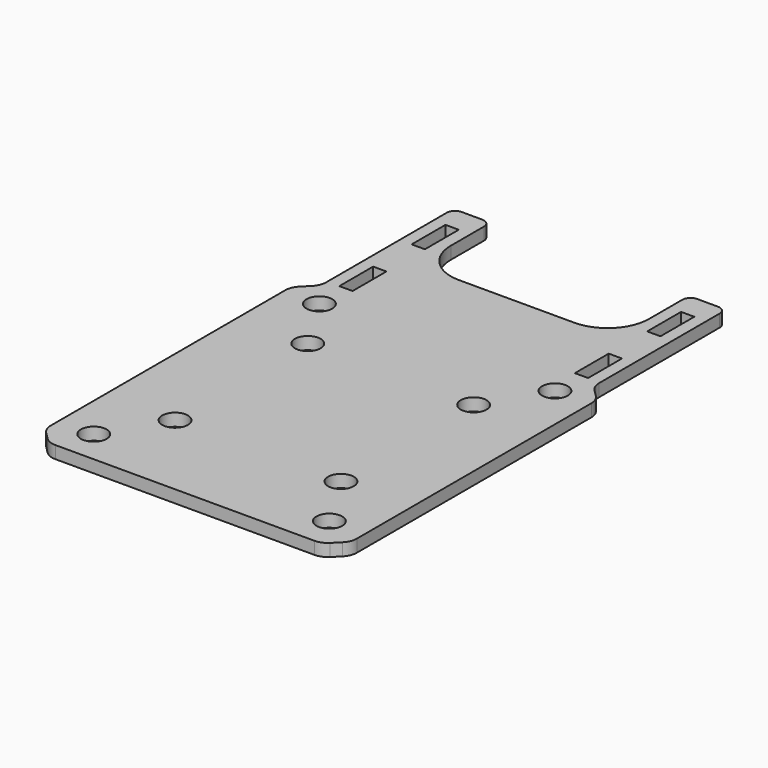
from build123d import *

# Parameters (mm, degrees)
F0_R     = 1.55
F0_W     = 1.6
F0_H     = 5.1
F1_DEPTH = 1.5
F2_R     = 5
F3_R     = 2
F4_R     = 1


with BuildPart() as f1:
    # F0 (on Top) → F1 (new body)
    with BuildSketch(Plane.XY):
        Polygon((-16.45, -30.5), (16.45, -30.5), (16.45, 10.5), (16.45, 30.5), (11.95, 30.5), (11.95, 19.5), (-11.95, 19.5), (-11.95, 30.5), (-16.45, 30.5), (-16.45, 10.5), align=None)
        with Locations((-14.2, -26.5)):
            Circle(F0_R, mode=Mode.SUBTRACT)
        with Locations((-10, -19.5)):
            Circle(F0_R, mode=Mode.SUBTRACT)
        with Locations((14.2, -26.5)):
            Circle(F0_R, mode=Mode.SUBTRACT)
        with Locations((10, -19.5)):
            Circle(F0_R, mode=Mode.SUBTRACT)
        with Locations((-14.2, 7.5)):
            Circle(F0_R, mode=Mode.SUBTRACT)
        with Locations((-10, 0.5)):
            Circle(F0_R, mode=Mode.SUBTRACT)
        with Locations((-14.2, 14.05)):
            Rectangle(F0_W, F0_H, mode=Mode.SUBTRACT)
        with Locations((-14.2, 24.95)):
            Rectangle(F0_W, F0_H, mode=Mode.SUBTRACT)
        with Locations((10, 0.5)):
            Circle(F0_R, mode=Mode.SUBTRACT)
        with Locations((14.2, 7.5)):
            Circle(F0_R, mode=Mode.SUBTRACT)
        with Locations((14.2, 14.05)):
            Rectangle(F0_W, F0_H, mode=Mode.SUBTRACT)
        with Locations((14.2, 24.95)):
            Rectangle(F0_W, F0_H, mode=Mode.SUBTRACT)
        Polygon((16.45, 10.5), (16.45, -30.5), (18.45, -28.5), (18.45, 8.5), align=None)
        Polygon((-18.45, -28.5), (-16.45, -30.5), (-16.45, 10.5), (-18.45, 8.5), align=None)
    extrude(amount=F1_DEPTH)

    # F2
    f2_edges = [f1.edges().sort_by_distance(p)[0] for p in [
        (-11.95, 19.5, 0.75),
        (11.95, 19.5, 0.75),
    ]]
    fillet(f2_edges, radius=F2_R)

    # F3
    f3_edges = [f1.edges().sort_by_distance(p)[0] for p in [
        (16.45, -30.5, 0.75),
        (18.45, -28.5, 0.75),
        (-18.45, -28.5, 0.75),
        (-16.45, -30.5, 0.75),
        (-18.45, 8.5, 0.75),
        (-16.45, 10.5, 0.75),
        (16.45, 10.5, 0.75),
        (18.45, 8.5, 0.75),
    ]]
    fillet(f3_edges, radius=F3_R)

    # F4
    f4_edges = [f1.edges().sort_by_distance(p)[0] for p in [
        (16.45, 30.5, 0.75),
        (11.95, 30.5, 0.75),
        (-11.95, 30.5, 0.75),
        (-16.45, 30.5, 0.75),
    ]]
    fillet(f4_edges, radius=F4_R)


solid = f1.part
